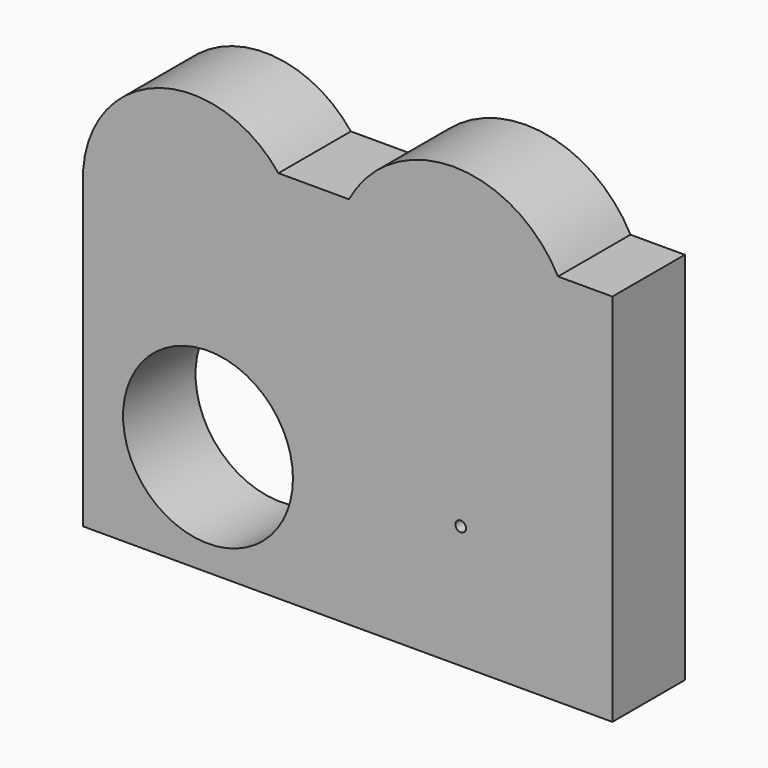
from build123d import *

# Parameters (mm, degrees)
F0_R     = 23.8231892188
F0_R_2   = 16.1761148504
F0_R_3   = 1.4754891284
F1_DEPTH = 25.4


with BuildPart() as f1:
    # F0 (on Front) → F1 (new body)
    with BuildSketch(Plane.XZ):
        with BuildLine():
            ThreePointArc((59.4117882899, 54.835062474), (30.0941746682, 72.4310516269), (0.7765610465, 54.835062474))
            Line((0.7765610465, 54.835062474), (59.4117882899, 54.835062474))
        make_face()
        with BuildLine():
            Line((59.4117882899, 54.835062474), (0.7765610465, 54.835062474))
            ThreePointArc((0.7765610465, 54.835062474), (22.0410833069, 6.9782518983), (63.3159871103, 39.2092391849))
            ThreePointArc((63.3159871103, 39.2092391849), (62.3251619547, 47.2623305461), (59.4117882899, 54.835062474))
        make_face()
        with BuildLine():
            Line((-19.0199100919, 54.835062474), (-67.2114855104, 54.835062474))
            ThreePointArc((-67.2114855104, 54.835062474), (-71.7847333832, 46.8469948963), (-73.788613081, 37.8632158535))
            Line((-73.788613081, 37.8632158535), (-73.788613081, 33.6104571325))
            ThreePointArc((-73.788613081, 33.6104571325), (-42.0518711488, 5.0087142952), (-12.3691659487, 35.736836493))
            ThreePointArc((-12.3691659487, 35.736836493), (-14.079417691, 45.8483971203), (-19.0199100919, 54.835062474))
        make_face()
        with BuildLine():
            ThreePointArc((-19.0199100919, 54.835062474), (-43.1156978011, 66.4833683454), (-67.2114855104, 54.835062474))
            Line((-67.2114855104, 54.835062474), (-19.0199100919, 54.835062474))
        make_face()
        with BuildLine():
            Line((0.7765610465, 54.835062474), (-19.0199100919, 54.835062474))
            ThreePointArc((-19.0199100919, 54.835062474), (-14.079417691, 45.8483971203), (-12.3691659487, 35.736836493))
            ThreePointArc((-12.3691659487, 35.736836493), (-42.0518711488, 5.0087142952), (-73.788613081, 33.6104571325))
            Line((-73.788613081, 33.6104571325), (-73.788613081, -50.20519346))
            Line((-73.788613081, -50.20519346), (74.6567100286, -50.20519346))
            Line((74.6567100286, -50.20519346), (74.6567100286, 54.835062474))
            Line((74.6567100286, 54.835062474), (59.4117882899, 54.835062474))
            ThreePointArc((59.4117882899, 54.835062474), (62.3251619547, 47.2623305461), (63.3159871103, 39.2092391849))
            ThreePointArc((63.3159871103, 39.2092391849), (22.0410833069, 6.9782518983), (0.7765610465, 54.835062474))
        make_face()
        with Locations((-38.775190711, -19.2429125309)):
            Circle(F0_R, mode=Mode.SUBTRACT)
        with Locations((32.119743526, -15.7705061138)):
            Circle(F0_R_2, mode=Mode.SUBTRACT)
        with Locations((32.119743526, -15.7705061138)):
            Circle(F0_R_2)
        with Locations((32.119743526, -15.7705061138)):
            Circle(F0_R_3, mode=Mode.SUBTRACT)
    extrude(amount=F1_DEPTH)


solid = f1.part
